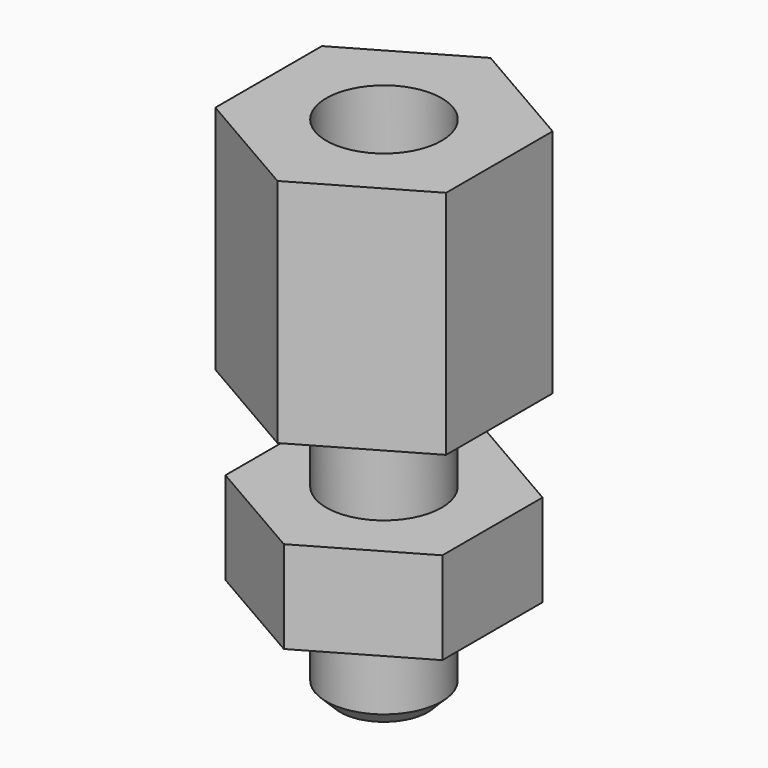
from build123d import *

# Parameters (mm, degrees)
F1_DEPTH = 5
F2_R     = 1.25
F3_DEPTH = 6
F4_R     = 1.25
F5_DEPTH = 2.5
F6_SIZE  = 0.3
F8_R     = 1.25
F9_DEPTH = 2


with BuildPart() as f1:
    # F0 (on Top) → F1 (new body)
    with BuildSketch(Plane.XY):
        Polygon((2.5, 1.443376), (0, 2.886751), (-2.5, 1.443376), (-2.5, -1.443376), (0, -2.886751), (2.5, -1.443376), align=None)
    extrude(amount=-F1_DEPTH)

    # F2 (on face) → F3 (join)
    with BuildSketch(Plane(origin=(0, 0, -5), x_dir=(1, 0, 0), z_dir=(0, 0, -1))):
        Circle(F2_R)
    extrude(amount=F3_DEPTH)

    # F4 (on face) → F5 (cut)
    with BuildSketch(Plane.XY):
        Circle(F4_R)
    extrude(amount=-F5_DEPTH, mode=Mode.SUBTRACT)

    # F6
    f6_edges = [f1.edges().sort_by_distance(p)[0] for p in [
        (-1.25, 0, -11),
    ]]
    chamfer(f6_edges, length=F6_SIZE)

    # F8 (on offset) → F9 (join)
    with BuildSketch(Plane(origin=(0, 0, -7), x_dir=(1, 0, 0), z_dir=(0, 0, -1))):
        Polygon((0, 2.713546), (-2.35, 1.356773), (-2.35, -1.356773), (0, -2.713546), (2.35, -1.356773), (2.35, 1.356773), align=None)
        Circle(F8_R, mode=Mode.SUBTRACT)
    extrude(amount=F9_DEPTH)


solid = f1.part
